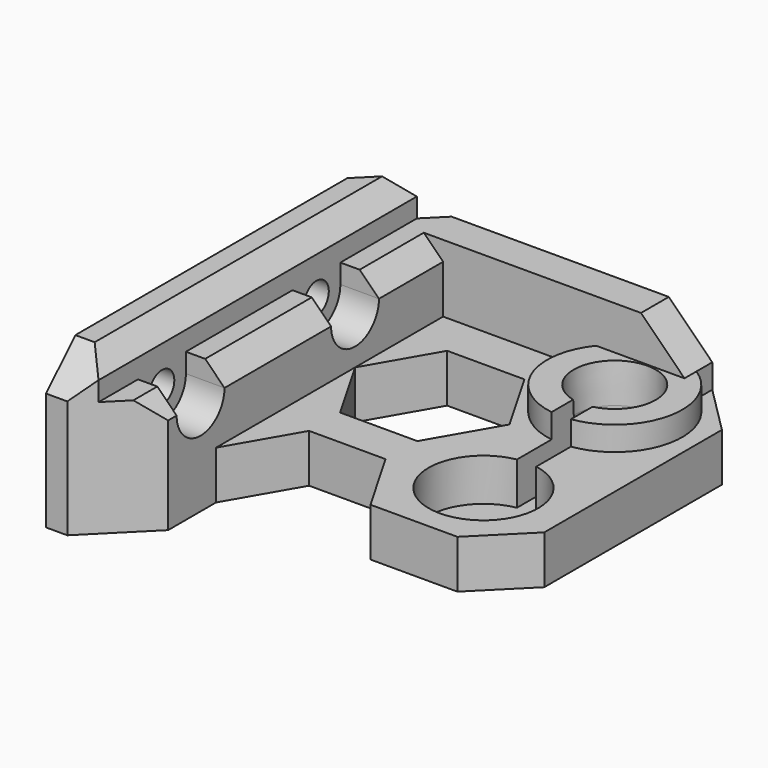
from build123d import *

# Parameters (mm, degrees)
PAD_DEPTH        = 16
POCKET_DEPTH     = 45.001
POCKET001_DEPTH  = 11.001
SKETCH003_R      = 7
PAD001_DEPTH     = 2.5
POCKET002_DEPTH  = 6.9
SKETCH005_R      = 1.6
POCKET003_DEPTH  = 38.001
POCKET004_DEPTH  = 4
CHAMFER_SIZE     = 2
CHAMFER001_SIZE  = 3.79
CHAMFER002_SIZE  = 1.5
CHAMFER003_SIZE2 = 4
CHAMFER003_SIZE  = 0.2
SKETCH007_W      = 0.1
SKETCH007_H      = 3.5
POCKET005_DEPTH  = 21
SKETCH008_W      = 0.1
SKETCH008_H      = 3.5
POCKET006_DEPTH  = 18
SKETCH009_W      = 0.1
SKETCH009_H      = 3.5
POCKET007_DEPTH  = 22
SKETCH010_W      = 0.1
SKETCH010_H      = 3.5
POCKET008_DEPTH  = 20


with BuildPart() as body001:
    # Sketch → Pad (new body)
    with BuildSketch(Plane.XY):
        Polygon((0, 45), (2.2, 45), (8, 39.2), (8, 33), (12.041452, 26), (19.958548, 26), (24, 33), (33, 33), (38, 28), (38, 5), (33, 0), (6, 0), (0, 6), align=None)
        Polygon((20, 21.928203), (12, 21.928203), (8, 15), (12, 8.071797), (20, 8.071797), (24, 15), align=None, mode=Mode.SUBTRACT)
    extrude(amount=PAD_DEPTH)

    # Sketch001 → Pocket (cut, through all)
    with BuildSketch(Plane.XZ):
        Polygon((0, 16), (2, 16), (4, 14), (4, 12), (28.5, 12), (33, 7.5), (33, 5), (39, 5), (39, 17), (0, 17), align=None)
    extrude(amount=-POCKET_DEPTH, mode=Mode.SUBTRACT)

    # Sketch002 → Pocket001 (cut, through all)
    with BuildSketch(Plane.XY.offset(5)):
        Polygon((8, 45), (8, 3.6), (33, 3.6), (33, -1), (39, -1), (39, 45), align=None)
    extrude(amount=POCKET001_DEPTH, mode=Mode.SUBTRACT)

    # Sketch003 → Pad001 (join)
    with BuildSketch(Plane.XY.offset(5)):
        with Locations((29.3, 8)):
            Circle(SKETCH003_R)
    extrude(amount=PAD001_DEPTH)

    # Sketch004 → Pocket002 (cut)
    with BuildSketch(Plane.XY.offset(7.5)):
        with BuildLine():
            ThreePointArc((30.3, 19.4138), (29.3, 30.675), (28.3, 19.4138))
            Line((28.3, 19.4138), (28.3, 11.924602))
            ThreePointArc((28.3, 11.924602), (29.3, 3.95), (30.3, 11.924602))
            Line((30.3, 19.4138), (30.3, 11.924602))
        make_face()
    extrude(amount=-POCKET002_DEPTH, mode=Mode.SUBTRACT)

    # Sketch005 → Pocket003 (cut, through all)
    with BuildSketch(Plane.YZ):
        with Locations((15, 10)):
            Circle(SKETCH005_R)
        with Locations((35, 10)):
            Circle(SKETCH005_R)
    extrude(amount=POCKET003_DEPTH, mode=Mode.SUBTRACT)

    # Sketch006 → Pocket004 (cut)
    with BuildSketch(Plane.YZ.offset(8)):
        with BuildLine():
            ThreePointArc((11.9, 10), (15, 6.9), (18.1, 10))
            Line((18.1, 16), (18.1, 10))
            Line((11.9, 16), (18.1, 16))
            Line((11.9, 10), (11.9, 16))
        make_face()
        with BuildLine():
            ThreePointArc((31.9, 10), (35, 6.9), (38.1, 10))
            Line((38.1, 16), (38.1, 10))
            Line((31.9, 16), (38.1, 16))
            Line((31.9, 10), (31.9, 16))
        make_face()
    extrude(amount=-POCKET004_DEPTH, mode=Mode.SUBTRACT)

    # Chamfer
    chamfer_edges = [body001.edges().sort_by_distance(p)[0] for p in [
        (8, 7.75, 12),
        (8, 25, 12),
        (8, 38.65, 12),
    ]]
    chamfer(chamfer_edges, length=CHAMFER_SIZE)

    # Chamfer001
    chamfer001_edges = [body001.edges().sort_by_distance(p)[0] for p in [
        (1, 45, 16),
    ]]
    chamfer(chamfer001_edges, length=CHAMFER001_SIZE)

    # Chamfer002
    chamfer002_edges = [body001.edges().sort_by_distance(p)[0] for p in [
        (3, 3, 0),
        (19.5, 0, 0),
    ]]
    chamfer(chamfer002_edges, length=CHAMFER002_SIZE)

    # Chamfer003
    chamfer003_edges = [body001.edges().sort_by_distance(p)[0] for p in [
        (29.3, 3.95, 7.5),
    ]]
    chamfer003_side = body001.faces().sort_by_distance((33.19017, 2.828889, 7.5))[0]
    chamfer(chamfer003_edges, length=CHAMFER003_SIZE, length2=CHAMFER003_SIZE2, reference=chamfer003_side)

    # Sketch007 → Pocket005 (cut)
    with BuildSketch(Plane.YZ.offset(1.5)):
        with Locations((24.05, 2.25)):
            Rectangle(SKETCH007_W, SKETCH007_H)
    extrude(amount=POCKET005_DEPTH, mode=Mode.SUBTRACT)

    # Sketch008 → Pocket006 (cut)
    with BuildSketch(Plane.YZ.offset(3)):
        with Locations((6.05, 2.25)):
            Rectangle(SKETCH008_W, SKETCH008_H)
    extrude(amount=POCKET006_DEPTH, mode=Mode.SUBTRACT)

    # Sketch009 → Pocket007 (cut)
    with BuildSketch(Plane.YZ.offset(10)):
        with Locations((2.05, 2.25)):
            Rectangle(SKETCH009_W, SKETCH009_H)
    extrude(amount=POCKET007_DEPTH, mode=Mode.SUBTRACT)

    # Sketch010 → Pocket008 (cut)
    with BuildSketch(Plane.XZ.offset(-6.5)):
        with Locations((36.55, 2.25)):
            Rectangle(SKETCH010_W, SKETCH010_H)
    extrude(amount=-POCKET008_DEPTH, mode=Mode.SUBTRACT)


with BuildPart() as z_axis_top_l:
    # Part__Mirroring: instance of Body001
    add(body001.part.mirror(Plane(origin=(0, 0, 0), x_dir=(1, 0, 0), z_dir=(0, 1, 0))))


solid = z_axis_top_l.part
